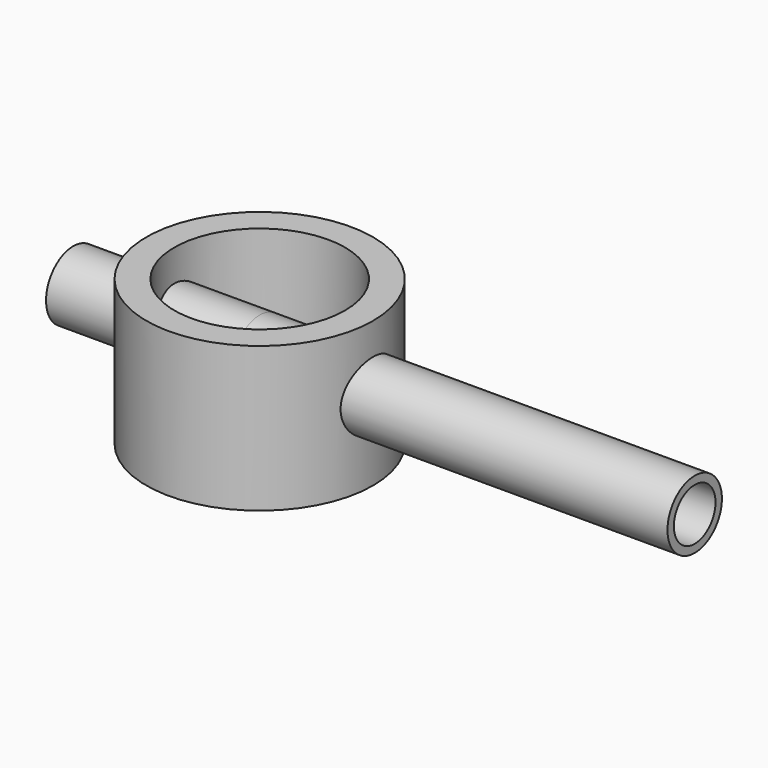
from build123d import *

# Parameters (mm, degrees)
F0_R        = 54.734044
F0_R_2      = 41.208853
F1_DEPTH    = 70
F2_R        = 16.428668
F2_R_2      = 12.550966
F3_DEPTH    = 60
F3_FACE_R   = 16.428668
F3_FACE_R_2 = 12.550966
F4_DEPTH    = 150


with BuildPart() as f1:
    # F0 (on Top) → F1 (new body)
    with BuildSketch(Plane.XY):
        Circle(F0_R)
        Circle(F0_R_2, mode=Mode.SUBTRACT)
    extrude(amount=F1_DEPTH)

    # F2 (on Right) → F3 (join)
    with BuildSketch(Plane.YZ):
        with Locations((0, 38.257983)):
            Circle(F2_R)
        with Locations((0, 38.257983)):
            Circle(F2_R_2, mode=Mode.SUBTRACT)
    extrude(amount=F3_DEPTH)

    # F3_face (on face) → F4 (join, symmetric)
    with BuildSketch(Plane(origin=(60, 0, 38.257983), x_dir=(0, 1, 0), z_dir=(1, 0, 0))):
        Circle(F3_FACE_R)
        Circle(F3_FACE_R_2, mode=Mode.SUBTRACT)
    extrude(amount=F4_DEPTH, both=True)


solid = f1.part
